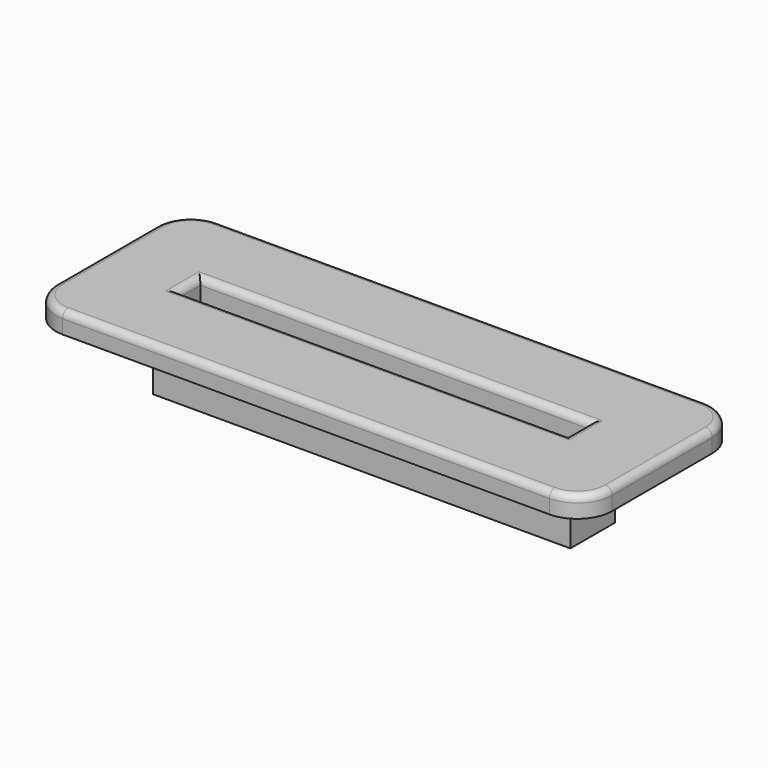
from build123d import *

# Parameters (mm, degrees)
F0_W     = 80
F0_H     = 28
F0_W_2   = 60
F0_H_2   = 8
F0_W_3   = 56
F0_H_3   = 4
F1_DEPTH = 3
F2_DEPTH = 10
F3_R     = 5
F4_R     = 1


with BuildPart() as f1:
    # F0 (on Top) → F1 (new body)
    with BuildSketch(Plane.XY):
        Rectangle(F0_W, F0_H)
        Rectangle(F0_W_2, F0_H_2, mode=Mode.SUBTRACT)
        Rectangle(F0_W_2, F0_H_2)
        Rectangle(F0_W_3, F0_H_3, mode=Mode.SUBTRACT)
    extrude(amount=F1_DEPTH)

    # F0 (on Top) → F2 (join)
    with BuildSketch(Plane.XY):
        Rectangle(F0_W_2, F0_H_2)
        Rectangle(F0_W_3, F0_H_3, mode=Mode.SUBTRACT)
    extrude(amount=-F2_DEPTH)

    # F3
    f3_edges = [f1.edges().sort_by_distance(p)[0] for p in [
        (-40, 14, 1.5),
        (-40, -14, 1.5),
        (40, 14, 1.5),
        (40, -14, 1.5),
    ]]
    fillet(f3_edges, radius=F3_R)

    # F4
    f4_edges = [f1.edges().sort_by_distance(p)[0] for p in [
        (40, 0, 3),
        (38.535534, -12.535534, 3),
        (38.535534, 12.535534, 3),
        (0, -14, 3),
        (0, 14, 3),
        (-38.535534, -12.535534, 3),
        (-38.535534, 12.535534, 3),
        (-40, 0, 3),
        (0, 2, 3),
        (28, 0, 3),
        (0, -2, 3),
        (-28, 0, 3),
    ]]
    fillet(f4_edges, radius=F4_R)


solid = f1.part
